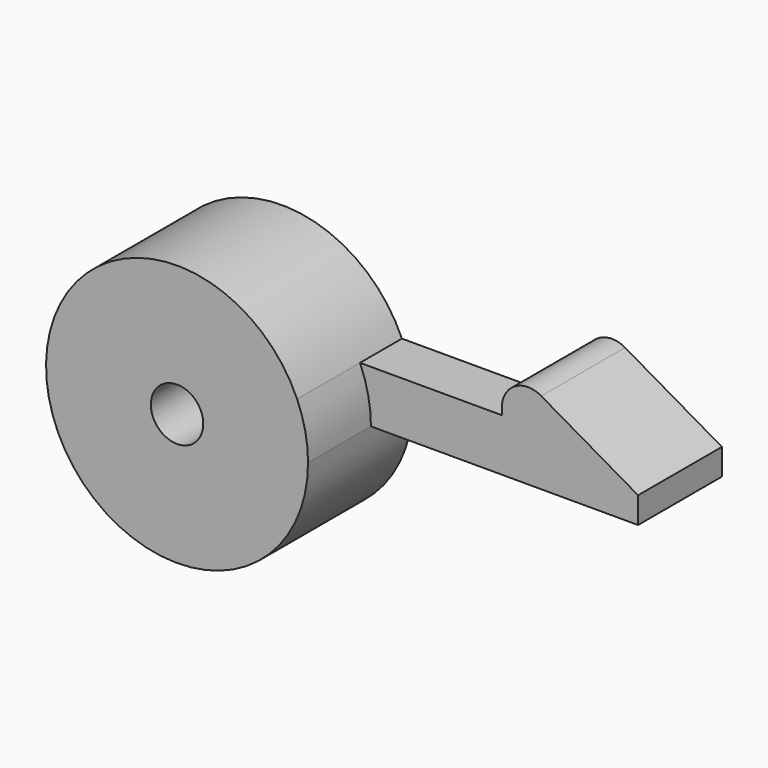
from build123d import *

# Parameters (mm, degrees)
F1_DEPTH = 5
F2_DEPTH = 2
F3_DEPTH = 2
F4_D     = 2
F5_R     = 1


with BuildPart() as f1:
    # F0 (on Front) → F1 (new body)
    with BuildSketch(Plane.XZ):
        with BuildLine():
            ThreePointArc((4.582576, 2), (-4.894532, -1.021548), (5, 0))
            ThreePointArc((5, 0), (4.894532, 1.021548), (4.582576, 2))
        make_face()
    extrude(amount=F1_DEPTH)

    # F0 (on Front) → F2 (join)
    with BuildSketch(Plane.XZ):
        with BuildLine():
            ThreePointArc((4.582576, 2), (4.894532, 1.021548), (5, 0))
            Line((5, 0), (10, 0))
            Line((10, 0), (10, 2))
            Line((10, 2), (4.582576, 2))
        make_face()
    extrude(amount=F2_DEPTH)

    # F0 (on Front) → F3 (join, symmetric)
    with BuildSketch(Plane.XZ):
        Polygon((10, 2), (10, 0), (15.196152, 0), (15.196152, 1), (10, 4), align=None)
    extrude(amount=F3_DEPTH, both=True)

    # F4 (through all)
    with Locations(Plane(origin=(0, 0, 0), x_dir=(1, 0, 0), z_dir=(0, 1, 0))):
        with Locations((0, 0)):
            Hole(F4_D / 2)

    # F5
    f5_edges = [f1.edges().sort_by_distance(p)[0] for p in [
        (10, 0, 4),
    ]]
    fillet(f5_edges, radius=F5_R)


solid = f1.part
